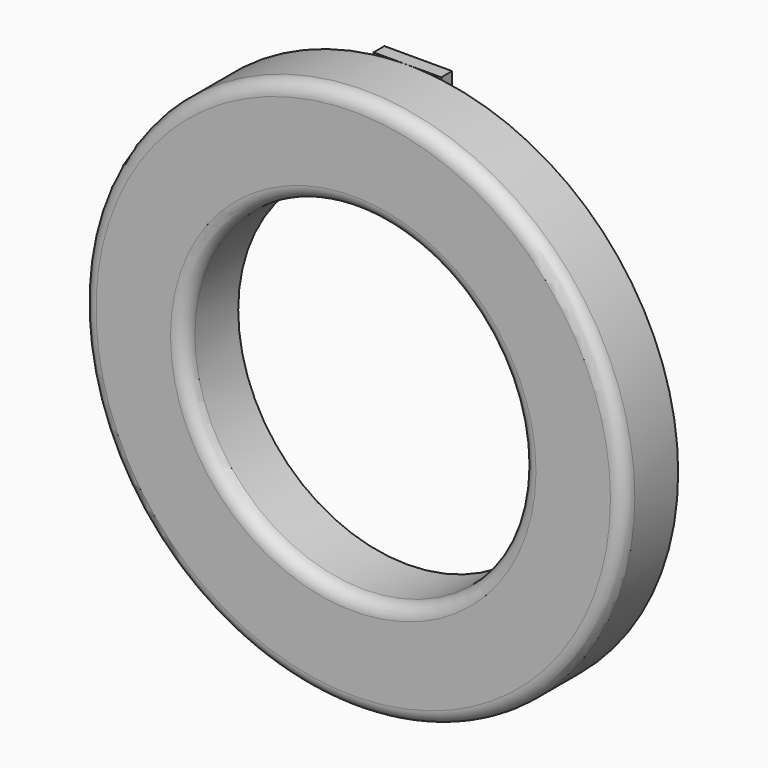
from build123d import *

# Parameters (mm, degrees)
F0_R     = 50.8
F0_R_2   = 31.75
F1_DEPTH = 12.7
F2_R     = 2.54
F3_W     = 12.7
F3_H     = 12.7
F4_DEPTH = 2.54


with BuildPart() as f1:
    # F0 (on Front) → F1 (new body)
    with BuildSketch(Plane.XZ):
        Circle(F0_R)
        Circle(F0_R_2, mode=Mode.SUBTRACT)
    extrude(amount=F1_DEPTH)

    # F2
    f2_edges = [f1.edges().sort_by_distance(p)[0] for p in [
        (-50.8, -12.7, 0),
        (-31.75, -12.7, 0),
    ]]
    fillet(f2_edges, radius=F2_R)

    # F3 (on Front) → F4 (join)
    with BuildSketch(Plane.XZ):
        with Locations((0, 44.45)):
            Rectangle(F3_W, F3_H)
    extrude(amount=-F4_DEPTH)


solid = f1.part
